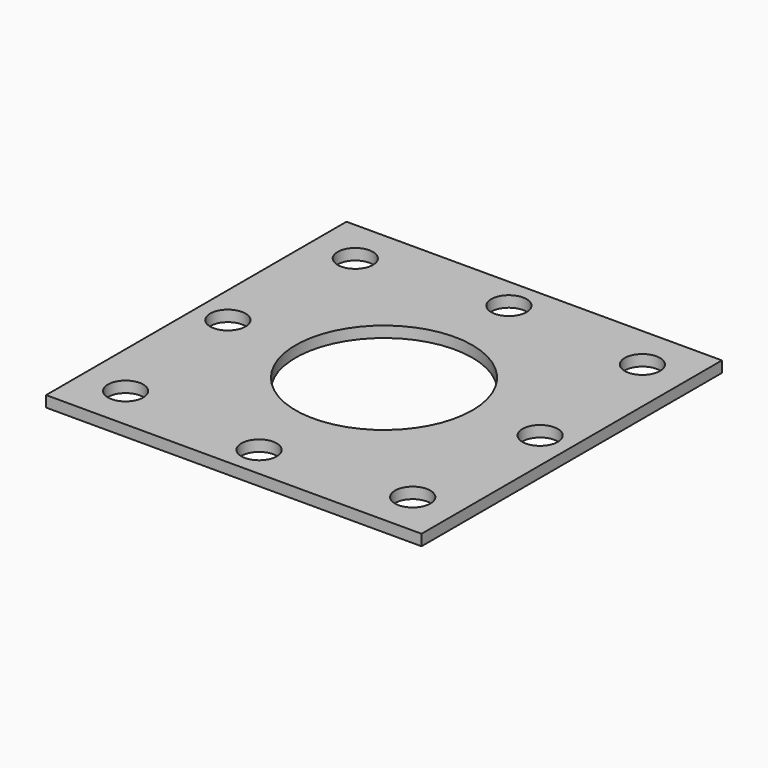
from build123d import *

# Parameters (mm, degrees)
SKETCH_W        = 34
SKETCH_H        = 34
SKETCH_R        = 8
PAD_DEPTH       = 1
SKETCH001_R     = 1.6
POCKET_DEPTH    = 5
SKETCH002_R     = 1.6
POCKET001_DEPTH = 5


with BuildPart() as part:
    # Sketch → Pad (new body)
    with BuildSketch(Plane.XY):
        Rectangle(SKETCH_W, SKETCH_H)
        Circle(SKETCH_R, mode=Mode.SUBTRACT)
    extrude(amount=PAD_DEPTH)

    # Sketch001 (on Face7 of Pad) → Pocket (cut)
    with BuildSketch(Plane.XY.offset(1)):
        with Locations((0, 14.14)):
            Circle(SKETCH001_R)
        with Locations((14.14, 0)):
            Circle(SKETCH001_R)
        with Locations((-14.14, 0)):
            Circle(SKETCH001_R)
        with Locations((0, -14.14)):
            Circle(SKETCH001_R)
    extrude(amount=-POCKET_DEPTH, mode=Mode.SUBTRACT)

    # Sketch002 (on Face5 of Pocket) → Pocket001 (cut)
    with BuildSketch(Plane.XY.offset(1)):
        with Locations((-13, 13)):
            Circle(SKETCH002_R)
        with Locations((13, 13)):
            Circle(SKETCH002_R)
        with Locations((-13, -13)):
            Circle(SKETCH002_R)
        with Locations((13, -13)):
            Circle(SKETCH002_R)
    extrude(amount=-POCKET001_DEPTH, mode=Mode.SUBTRACT)


solid = part.part
